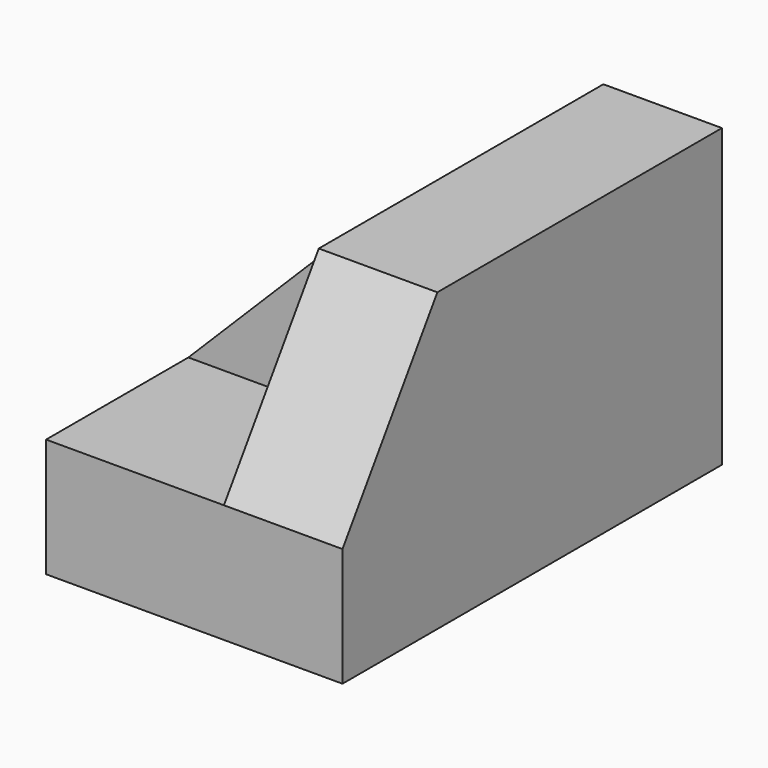
from build123d import *

# Parameters (mm, degrees)
F0_W     = 31.7499981381
F0_H     = 31.75
F1_DEPTH = 50.8
F2_W     = 19.05
F2_H     = 19.05
F3_DEPTH = 19.05
F4_W     = 19.05
F4_H     = 19.05
F5_DEPTH = 19.05
F7_DEPTH = 31.751
F9_DEPTH = 12.7009981381


with BuildPart() as f1:
    # F0 (on Front) → F1 (new body)
    with BuildSketch(Plane.XZ):
        with Locations((-39.904483594, 36.0849127173)):
            Rectangle(F0_W, F0_H)
    extrude(amount=F1_DEPTH)

    # F2 (on face) → F3 (cut)
    with BuildSketch(Plane.XZ.offset(50.8)):
        with Locations((-46.2544826631, 42.4349127173)):
            Rectangle(F2_W, F2_H)
    extrude(amount=-F3_DEPTH, mode=Mode.SUBTRACT)

    # F4 (on face) → F5 (cut)
    with BuildSketch(Plane(origin=(0, 0, 0), x_dir=(-1, 0, 0), z_dir=(0, 1, 0))):
        with Locations((46.2544826631, 42.4349127173)):
            Rectangle(F4_W, F4_H)
    extrude(amount=-F5_DEPTH, mode=Mode.SUBTRACT)

    # F6 (on face) → F7 (cut, through all)
    with BuildSketch(Plane.XZ.offset(31.75)):
        Polygon((-55.7794826631, 32.9099127173), (-36.7294826631, 51.9599127173), (-55.7794826631, 51.9599127173), align=None)
    extrude(amount=-F7_DEPTH, mode=Mode.SUBTRACT)

    # F8 (on face) → F9 (cut, through all)
    with BuildSketch(Plane(origin=(-36.7294826631, 0, 0), x_dir=(0, -1, 0), z_dir=(-1, 0, 0))):
        Polygon((50.8, 51.9599127173), (38.1, 51.9599127173), (50.8, 32.9099127173), align=None)
    extrude(amount=-F9_DEPTH, mode=Mode.SUBTRACT)


solid = f1.part
